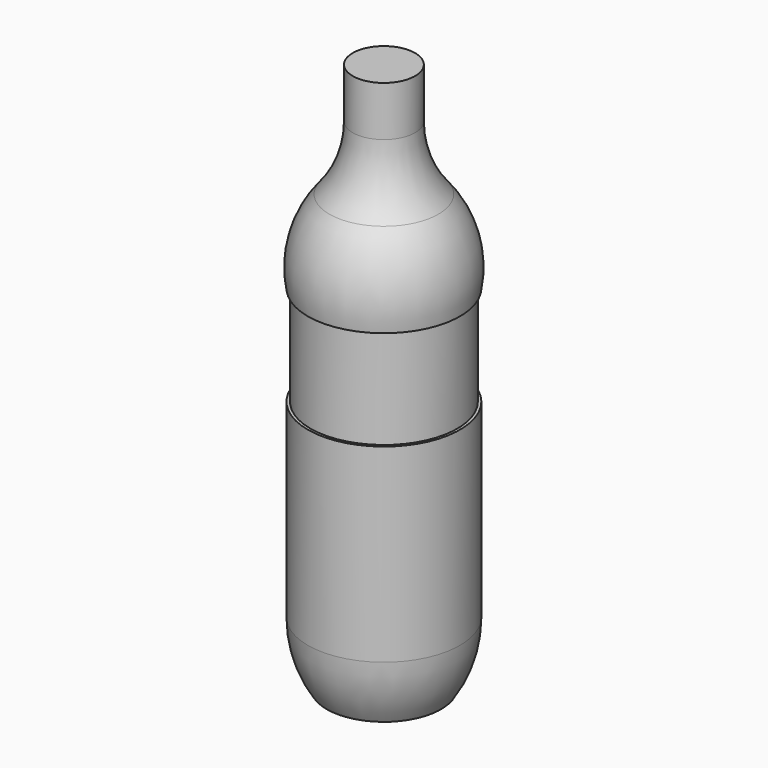
from build123d import *


with BuildPart() as f1:
    # F0 (on Front) → F1 (revolve)
    with BuildSketch(Plane.XZ):
        with BuildLine():
            Line((0, -5397.5), (0, 0))
            Line((0, 0), (-317.5, 0))
            Line((-317.5, 0), (-317.5, -355.6))
            Line((-317.5, -355.6), (-317.5, -508))
            ThreePointArc((-317.5, -508), (-378.751371, -855.434965), (-555.120187, -1160.978458))
            ThreePointArc((-555.120187, -1160.978458), (-759.978026, -1558.027784), (-774.7, -2004.568))
            Line((-774.7, -2004.568), (-746.76, -2004.568))
            Line((-746.76, -2004.568), (-746.76, -3020.568))
            Line((-746.76, -3020.568), (-774.7, -3020.568))
            Line((-774.7, -3020.568), (-774.7, -3206.475735))
            Line((-774.7, -3206.475735), (-774.7, -4953))
            ThreePointArc((-774.7, -4953), (-725.485732, -5284.785732), (-582.080976, -5588))
            Line((-582.080976, -5588), (-387.35, -5588))
            ThreePointArc((-387.35, -5588), (-210.358881, -5458.826108), (0, -5397.5))
        make_face()
    revolve(axis=Axis((0, 0, -2698.75), (0, 0, -1)))


solid = f1.part
